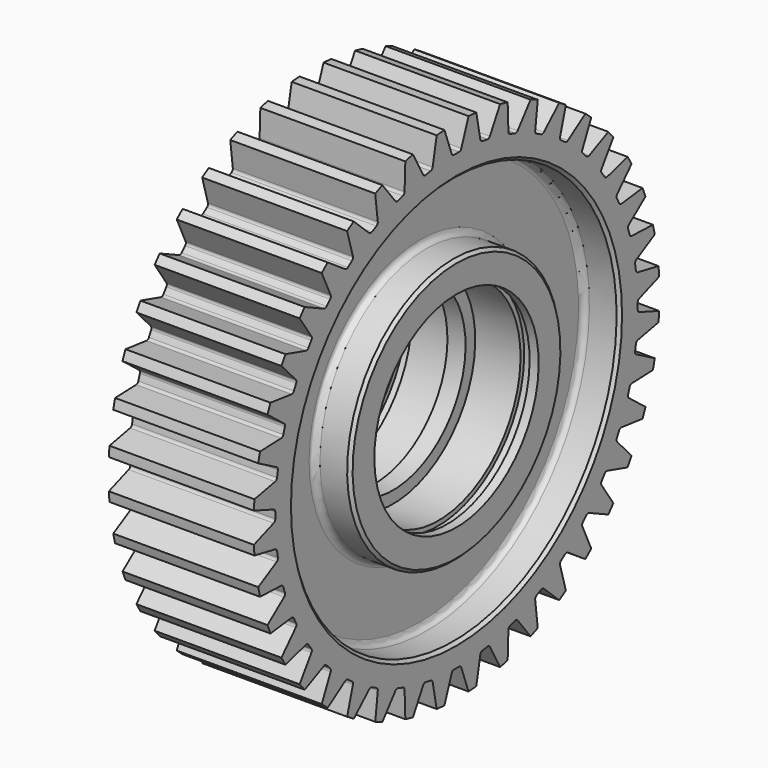
from build123d import *

# Parameters (mm, degrees)
F3_DEPTH = 25
F4_COUNT = 40
F4_ANGLE = 351
F5_SIZE2 = 1
F5_SIZE  = 1


with BuildPart() as f1:
    # F0 (on Front) → F1 (revolve)
    with BuildSketch(Plane.XZ):
        with BuildLine():
            Line((0, 84), (-24, 84))
            Line((-24, 84), (-24, 67.5))
            Line((-24, 67.5), (-14, 67.5))
            ThreePointArc((-14, 67.5), (-12.5857864376, 66.9142135624), (-12, 65.5))
            Line((-12, 65.5), (-12, 46))
            ThreePointArc((-12, 46), (-12.5857864376, 44.5857864376), (-14, 44))
            Line((-14, 44), (-24, 44))
            Line((-24, 44), (-24, 34))
            Line((-24, 34), (-21, 34))
            Line((-21, 34), (-21, 35.5))
            Line((-21, 35.5), (-18, 35.5))
            Line((-18, 35.5), (-18, 34))
            Line((-18, 34), (-3, 34))
            Line((-3, 34), (-3, 30))
            Line((-3, 30), (0, 30))
            Line((0, 30), (3, 30))
            Line((3, 30), (3, 34))
            Line((3, 34), (18, 34))
            Line((18, 34), (18, 35.5))
            Line((18, 35.5), (21, 35.5))
            Line((21, 35.5), (21, 34))
            Line((21, 34), (24, 34))
            Line((24, 34), (24, 44))
            Line((24, 44), (14, 44))
            ThreePointArc((14, 44), (12.5857864376, 44.5857864376), (12, 46))
            Line((12, 46), (12, 65.5))
            ThreePointArc((12, 65.5), (12.5857864376, 66.9142135624), (14, 67.5))
            Line((14, 67.5), (24, 67.5))
            Line((24, 67.5), (24, 84))
            Line((24, 84), (0, 84))
        make_face()
    revolve(axis=Axis((-12, 0, 0), (1, 0, 0)))

    # F2 (on Right) → F3 (cut, symmetric)
    with BuildSketch(Plane.YZ):
        with BuildLine():
            ThreePointArc((-1.0412874443, 74.9927711213), (0, 75), (1.0412874443, 74.9927711213))
            ThreePointArc((1.0412874443, 74.9927711213), (1.6230472701, 75.1695606152), (1.9948638977, 75.650654593))
            Line((1.9948638977, 75.650654593), (4.98, 83.8522486282))
            Line((4.98, 83.8522486282), (-4.98, 83.8522486282))
            Line((-4.98, 83.8522486282), (-1.9948638977, 75.650654593))
            ThreePointArc((-1.9948638977, 75.650654593), (-1.6230472701, 75.1695606152), (-1.0412874443, 74.9927711213))
        make_face()
        Polygon((-4.98, 83.8522486282), (4.98, 83.8522486282), (7.324393348, 90.293416414), (-7.324393348, 90.293416414), align=None)
    f3 = extrude(amount=F3_DEPTH, both=True, mode=Mode.SUBTRACT)

    # F4: F3 ×40 about axis
    f4_axis = Axis((24, 0, 0), (1, 0, 0))
    for i in range(1, F4_COUNT):
        add(f3.rotate(f4_axis, i * F4_ANGLE / (F4_COUNT - 1)), mode=Mode.SUBTRACT)

    # F5
    f5_edges = [f1.edges().sort_by_distance(p)[0] for p in [
        (24, 0, -67.5),
        (-24, 0, -67.5),
        (-24, 0, -44),
        (24, 0, -44),
    ]]
    chamfer(f5_edges, length=F5_SIZE, length2=F5_SIZE2)


solid = f1.part
